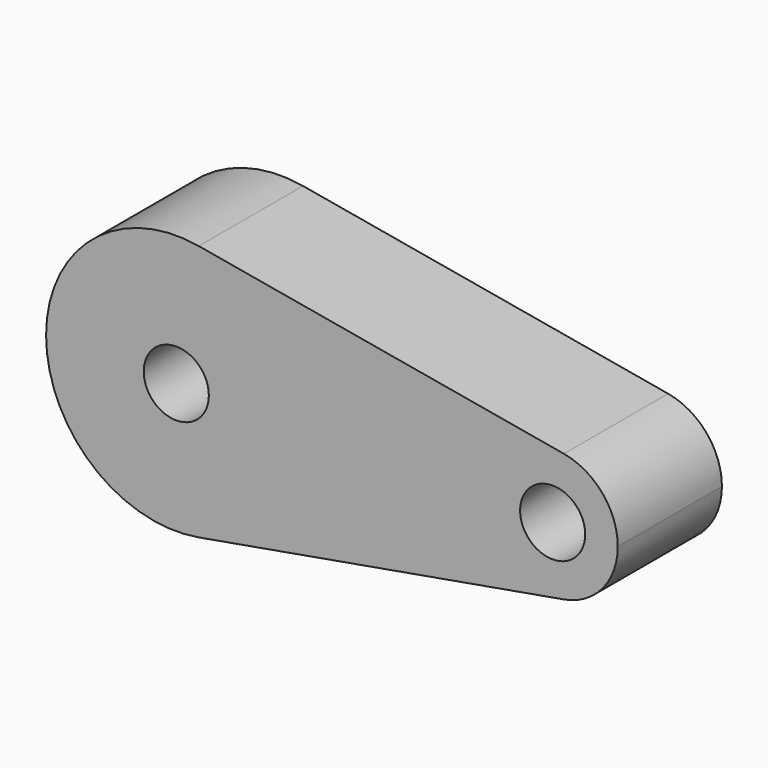
from build123d import *

# Parameters (mm, degrees)
F0_R     = 25
F1_DEPTH = 100


with BuildPart() as f1:
    # F0 (on Front) → F1 (new body)
    with BuildSketch(Plane.XZ):
        with BuildLine():
            ThreePointArc((-109.612707, -69.394727), (-50.328259, -35.206877), (-26.910985, 29.097758))
            ThreePointArc((-26.910985, 29.097758), (-50.328259, 93.402394), (-109.612707, 127.590243))
            ThreePointArc((-109.612707, 127.590243), (-226.910985, 29.097758), (-109.612707, -69.394727))
        make_face()
        with Locations((-126.910985, 29.097758)):
            Circle(F0_R, mode=Mode.SUBTRACT)
        with BuildLine():
            ThreePointArc((-109.612707, 127.590243), (-50.328259, 93.402394), (-26.910985, 29.097758))
            ThreePointArc((-26.910985, 29.097758), (-50.328259, -35.206877), (-109.612707, -69.394727))
            Line((-109.612707, -69.394727), (170.784278, -20.148484))
            ThreePointArc((170.784278, -20.148484), (112.135139, 29.097758), (170.784278, 78.344001))
            Line((170.784278, 78.344001), (-109.612707, 127.590243))
        make_face()
        with BuildLine():
            ThreePointArc((212.135139, 29.097758), (200.426502, 61.250076), (170.784278, 78.344001))
            ThreePointArc((170.784278, 78.344001), (112.135139, 29.097758), (170.784278, -20.148484))
            ThreePointArc((170.784278, -20.148484), (200.426502, -3.054559), (212.135139, 29.097758))
        make_face()
        with Locations((162.135139, 29.097758)):
            Circle(F0_R, mode=Mode.SUBTRACT)
    extrude(amount=F1_DEPTH)


solid = f1.part
